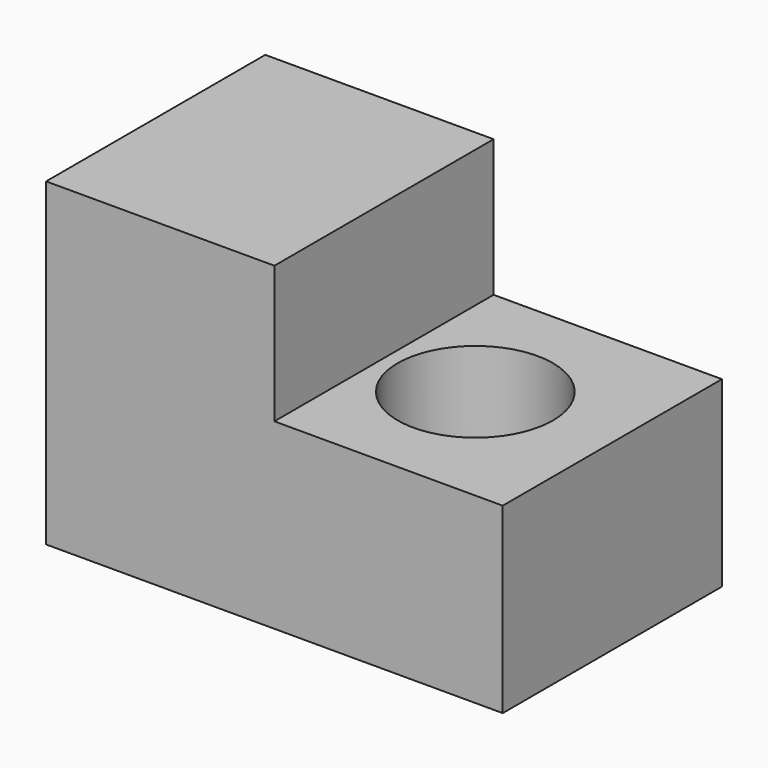
from build123d import *

# Parameters (mm, degrees)
F1_DEPTH = 381
F2_R     = 215.9
F3_DEPTH = 508


with BuildPart() as f1:
    # F0 (on Front) → F1 (new body, symmetric)
    with BuildSketch(Plane.XZ):
        Polygon((-635, -448.8883912563), (0, -448.8883912563), (635, -448.8883912563), (635, 59.1116087437), (0, 59.1116087437), (0, 440.1116087437), (-635, 440.1116087437), align=None)
    extrude(amount=F1_DEPTH, both=True)

    # F2 (on Top) → F3 (cut, symmetric)
    with BuildSketch(Plane.XY):
        with Locations((254, 0)):
            Circle(F2_R)
    extrude(amount=F3_DEPTH, both=True, mode=Mode.SUBTRACT)


solid = f1.part
